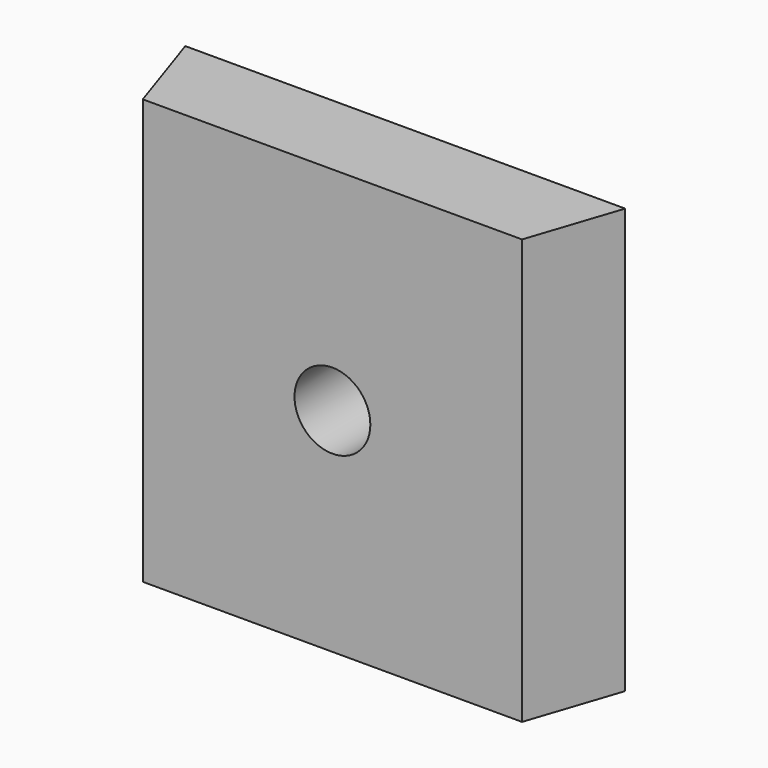
from build123d import *

# Parameters (mm, degrees)
F2_W     = 31.75
F2_H     = 35.56
F0_W     = 36.83
F0_H     = 35.56
F4_R     = 3.175
F5_DEPTH = 7.62


with BuildPart() as f3:
    # F2 (on offset) → F3 section 0
    with BuildSketch(Plane.XZ.offset(7.62)):
        Rectangle(F2_W, F2_H)
    # F0 (on Front) → F3 section 1
    with BuildSketch(Plane.XZ):
        Rectangle(F0_W, F0_H)
    loft()

    # F4 (on face) → F5 (cut, through all)
    with BuildSketch(Plane.XZ):
        Circle(F4_R)
    extrude(amount=F5_DEPTH, mode=Mode.SUBTRACT)


solid = f3.part
